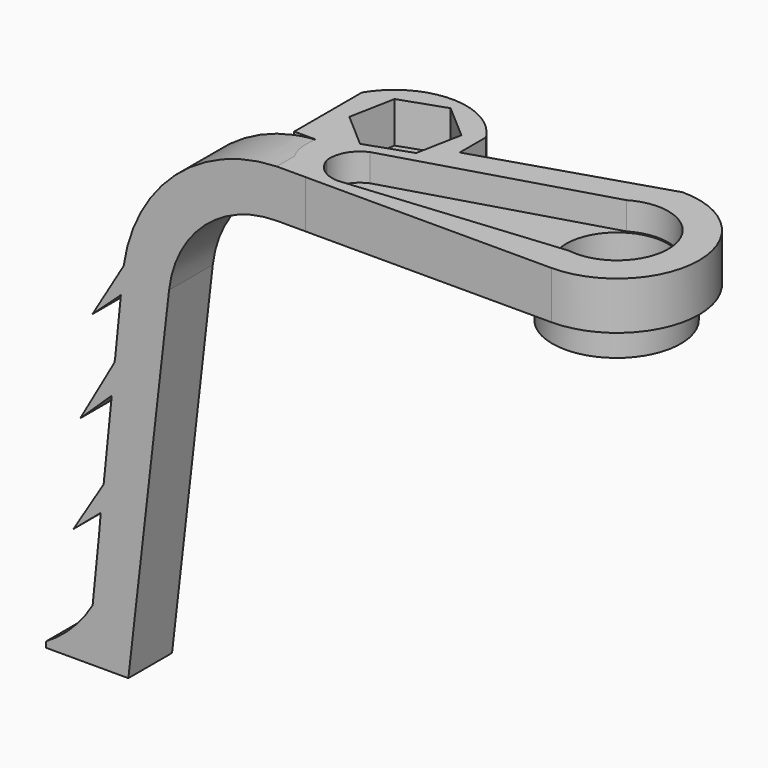
from build123d import *

# Parameters (mm, degrees)
PAD061_DEPTH       = 3.5
PAD059_DEPTH       = 2.5
PAD057_DEPTH       = 2
PAD058_DEPTH       = 3.5
SKETCH098_R        = 4.702209
PAD060_DEPTH       = 2.2
SKETCH099_R        = 3.711245
POCKET003044_DEPTH = 5
SKETCH101_R        = 1.7
POCKET003045_DEPTH = 5
POCKET003046_DEPTH = 3
PAD062_DEPTH       = 4


with BuildPart() as leg_link_shape:
    # Sketch100 → Pad061 (new body)
    with BuildSketch(Plane(origin=(0, 0, 31.512352), x_dir=(-1, 0, 0), z_dir=(0, 0, 1))):
        with BuildLine():
            Line((-20.438215, -2), (-13.234047, -4.102969))
            Line((-13.234047, -4.102969), (-13.028216, -6.021869))
            Line((-13.028216, -6.021869), (-13.028216, -8.298126))
            ThreePointArc((-22.034031, -8.18918), (-17.561616, -10.764285), (-13.028216, -8.298126))
            Line((-22.034031, -8.18918), (-22.034031, -2))
            Line((-20.438215, -2), (-22.034031, -2))
        make_face()
    extrude(amount=-PAD061_DEPTH)


with BuildPart() as obj1:
    # Sketch094 → Pad059 (new body)
    with BuildSketch(Plane(origin=(0, 4, 32), x_dir=(-0.981627, 0.190809, 0), z_dir=(0, 0, 1))):
        with BuildLine():
            ThreePointArc((3.75, 0.000844), (2.164719, 3.062106), (-1.25, 3.535534))
            Line((-1.25, 3.535534), (-17.000656, 2.000032))
            ThreePointArc((-17.000656, 2.000032), (-18.187877, 1.283749), (-18.711844, 0))
            ThreePointArc((-18.711844, 0), (-18.187829, -1.28373), (-17.000581, -1.999968))
            Line((-1.249867, -3.534878), (-17.000581, -1.999968))
            ThreePointArc((-1.249867, -3.534878), (2.165178, -3.061078), (3.75, 0.000844))
        make_face()
    extrude(amount=-PAD059_DEPTH)


with BuildPart() as obj2:
    # Sketch095 → Pad057 (new body, symmetric)
    with BuildSketch(Plane.XZ):
        with BuildLine():
            Line((0, 28.012352), (20.118014, 28.012352))
            ThreePointArc((27.996705, 20.985645), (25.39647, 26.000475), (20.118014, 28.012352))
            Line((27.996705, 20.985645), (30.977077, -4.999855))
            Line((33.977077, -4.999855), (30.977077, -4.999855))
            Line((31.375086, 21.001563), (33.977077, -4.999855))
            ThreePointArc((31.375086, 21.001563), (27.724484, 28.375327), (20.118014, 31.512352))
            Line((0, 31.512352), (20.118014, 31.512352))
            Line((0, 28.012352), (0, 31.512352))
        make_face()
    extrude(amount=PAD057_DEPTH, both=True)

    # Sketch096 → Pad058 (new body)
    with BuildSketch(Plane(origin=(0, 0, 31.512352), x_dir=(-1, 0, 0), z_dir=(0, 0, 1))):
        with BuildLine():
            Line((-18.002971, 2.001985), (0, 2.001985))
            ThreePointArc((0, -10), (6.000993, -3.999007), (0, 2.001985))
            Line((-19, -4), (0, -10))
            ThreePointArc((-18.002971, 2.001985), (-20.489406, -0.668781), (-19, -4))
        make_face()
    extrude(amount=-PAD058_DEPTH)

    # Cut: cut obj1
    add(obj1.part, mode=Mode.SUBTRACT)

    # Sketch098 → Pad060 (new body)
    with BuildSketch(Plane(origin=(0, 0, 28.012352), x_dir=(1, 0, 0), z_dir=(0, 0, -1))):
        with Locations((-0.089106, -3.841625)):
            Circle(SKETCH098_R)
    extrude(amount=PAD060_DEPTH)

    # Sketch099 → Pocket003044 (cut)
    with BuildSketch(Plane(origin=(0, 0, 25.812352), x_dir=(1, 0, 0), z_dir=(0, 0, -1))):
        with Locations((-0.080471, -3.899184)):
            Circle(SKETCH099_R)
    extrude(amount=-POCKET003044_DEPTH, mode=Mode.SUBTRACT)

    # Fusion007041: union leg_link_shape
    add(leg_link_shape.part)

    # Sketch101 → Pocket003045 (cut)
    with BuildSketch(Plane.XY.offset(31.512352)):
        with Locations((17.5, 6.5)):
            Circle(SKETCH101_R)
    extrude(amount=-POCKET003045_DEPTH, mode=Mode.SUBTRACT)

    # Sketch103 → Pocket003046 (cut)
    with BuildSketch(Plane.XY.offset(31.512352)):
        Polygon((18.142559, 3.16127), (20.712704, 5.387107), (20.070146, 8.725837), (16.857441, 9.83873), (14.287296, 7.612893), (14.929854, 4.274163), align=None)
    extrude(amount=-POCKET003046_DEPTH, mode=Mode.SUBTRACT)

    # Sketch102 → Pad062 (new body)
    with BuildSketch(Plane.XZ.offset(2)):
        with BuildLine():
            Line((27, 28.536497), (32.513573, -5))
            Line((32.513573, -5), (37.000002, -5))
            Line((37.000002, -5), (37.000002, -4.583553))
            ThreePointArc((33.505627, -1), (35.019116, -3.019659), (37.000002, -4.583553))
            Line((33, 5), (33.505627, -1))
            Line((35, 3.304739), (33, 5))
            Line((32.728943, 7), (35, 3.304739))
            Line((32, 13), (32.728943, 7))
            Line((34.496559, 10.608005), (32, 13))
            Line((32, 15), (34.496559, 10.608005))
            Line((31, 20), (32, 15))
            Line((33.606815, 17.606869), (31, 20))
            Line((31, 22), (33.606815, 17.606869))
            Line((27, 28.536497), (31, 22))
        make_face()
    extrude(amount=-PAD062_DEPTH)


with BuildPart() as part_mirroring008:
    # Part__Mirroring008: instance of obj2
    add(obj2.part.mirror(Plane(origin=(0, 0, 0), x_dir=(0, -1, 0), z_dir=(1, 0, 0))))


solid = part_mirroring008.part
